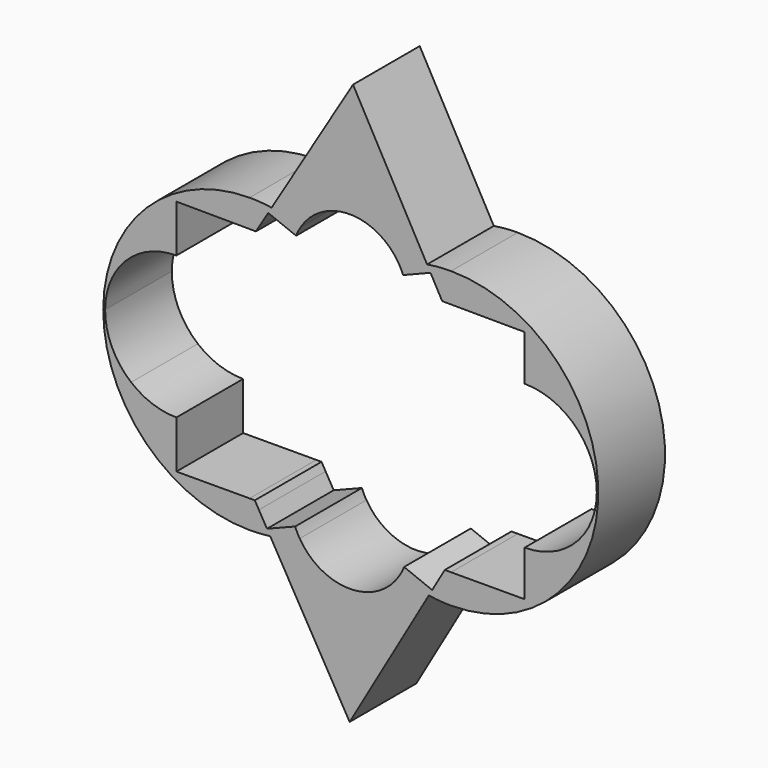
from build123d import *

# Parameters (mm, degrees)
F1_DEPTH = 25.4
F2_DEPTH = 25.654


with BuildPart() as f1:
    # F0 (on Front) → F1 (new body)
    with BuildSketch(Plane.XZ):
        with BuildLine():
            ThreePointArc((-15.060614174, 41.9682624685), (-0.0688082783, 50.3511332937), (14.987647146, 42.0849420703))
            ThreePointArc((14.987647146, 42.0849420703), (19.3434405932, 43.5057594661), (23.8204686342, 44.4793500101))
            Line((23.8204686342, 44.4793500101), (1.0321482392, 85.7816260454))
            Line((1.0321482392, 85.7816260454), (-24.0085215463, 44.2917114126))
            ThreePointArc((-24.0085215463, 44.2917114126), (-19.4747765312, 43.3602512097), (-15.060614174, 41.9682624685))
        make_face()
    extrude(amount=-F1_DEPTH)

    # F0 (on Front) → F2 (join)
    with BuildSketch(Plane.XZ):
        with BuildLine():
            Line((-28.8295803882, 36.30369346), (-27.7535005612, 38.0866513657))
            Line((-27.7535005612, 38.0866513657), (-30.7906209519, 44.8054462665))
            ThreePointArc((-30.7906209519, 44.8054462665), (-29.6489661187, 40.624103652), (-29.2771657497, 36.3056819144))
            Line((-29.2771657497, 36.3056819144), (-28.8295803882, 36.30369346))
        make_face()
        Polygon((-30.7906209519, 44.8054462665), (-27.7535005612, 38.0866513657), (-25.0648295944, 42.54151339), align=None)
        with BuildLine():
            Line((-53.3023555948, 36.4124168488), (-30.7906209519, 36.3124056299))
            Line((-30.7906209519, 36.3124056299), (-30.7906209519, 44.8054462665))
            ThreePointArc((-30.7906209519, 44.8054462665), (-62.5500321621, 31.6953988364), (-75.8140902377, 0))
            Line((-75.8140902377, 0), (-75.2328084137, -0.0011871857))
            ThreePointArc((-75.2328084137, -0.0011871857), (-73.1076200485, 9.3092127471), (-67.2269157832, 16.8336588954))
            ThreePointArc((-67.2269157832, 16.8336588954), (-60.6978163865, 20.5368755433), (-53.3023555948, 21.8214424558))
            Line((-53.3023555948, 21.8214424558), (-53.3023555948, 36.4124168488))
        make_face()
        with BuildLine():
            Line((-30.7906209519, 44.8054462665), (-30.7906209519, 36.3124056299))
            Line((-30.7906209519, 36.3124056299), (-29.2771657497, 36.3056819144))
            ThreePointArc((-29.2771657497, 36.3056819144), (-29.6489661187, 40.624103652), (-30.7906209519, 44.8054462665))
        make_face()
        with BuildLine():
            Line((-25.0648295944, 42.54151339), (-16.4788366985, 39.1466793172))
            ThreePointArc((-16.4788366985, 39.1466793172), (-15.832705808, 40.5891269445), (-15.060614174, 41.9682624685))
            ThreePointArc((-15.060614174, 41.9682624685), (-19.4747765312, 43.3602512097), (-24.0085215463, 44.2917114126))
            Line((-24.0085215463, 44.2917114126), (-25.0648295944, 42.54151339))
        make_face()
        with BuildLine():
            ThreePointArc((23.8204686342, 44.4793500101), (19.3434405932, 43.5057594661), (14.987647146, 42.0849420703))
            ThreePointArc((14.987647146, 42.0849420703), (15.7885662341, 40.6763432088), (16.4574657961, 39.2004721052))
            Line((16.4574657961, 39.2004721052), (24.8784135948, 42.5618969449))
            Line((24.8784135948, 42.5618969449), (23.8204686342, 44.4793500101))
        make_face()
        with BuildLine():
            ThreePointArc((-15.060614174, 41.9682624685), (-0.0688082783, 50.3511332937), (14.987647146, 42.0849420703))
            ThreePointArc((14.987647146, 42.0849420703), (19.3434405932, 43.5057594661), (23.8204686342, 44.4793500101))
            Line((23.8204686342, 44.4793500101), (1.0321482392, 85.7816260454))
            Line((1.0321482392, 85.7816260454), (-24.0085215463, 44.2917114126))
            ThreePointArc((-24.0085215463, 44.2917114126), (-19.4747765312, 43.3602512097), (-15.060614174, 41.9682624685))
        make_face()
        with BuildLine():
            ThreePointArc((-24.0085215463, 44.2917114126), (-27.3898564846, 44.6768288461), (-30.7906209519, 44.8054462665))
            Line((-30.7906209519, 44.8054462665), (-25.0648295944, 42.54151339))
            Line((-25.0648295944, 42.54151339), (-24.0085215463, 44.2917114126))
        make_face()
        with BuildLine():
            Line((29.4191831059, 36.0449159855), (31.1962604648, 36.0370210954))
            Line((31.1962604648, 36.0370210954), (31.1962604648, 45.083818219))
            ThreePointArc((31.1962604648, 45.083818219), (29.8777965479, 40.6488917918), (29.4191831059, 36.0449159855))
        make_face()
        with BuildLine():
            Line((31.1962604648, 45.083818219), (31.1962604648, 36.0370210954))
            Line((31.1962604648, 36.0370210954), (53.8473990671, 35.9363905568))
            Line((53.8473990671, 35.9363905568), (53.8473990671, 21.9238056105))
            ThreePointArc((53.8473990671, 21.9238056105), (61.6802350926, 20.4952804957), (68.5044998261, 16.3936448398))
            ThreePointArc((68.5044998261, 16.3936448398), (74.0656549864, 8.8761377727), (76.0360198852, -0.2648152075))
            ThreePointArc((76.0360198852, -0.2648152075), (76.036008316, -0.2874737281), (76.0359736084, -0.310132225))
            Line((76.0359736084, -0.310132225), (76.4985376694, -0.3110769465))
            ThreePointArc((76.4985376694, -0.3110769465), (63.2625699929, 31.7823320468), (31.1962604648, 45.083818219))
        make_face()
        Polygon((24.8784135948, 42.5618969449), (27.686077002, 37.4731985658), (31.1962604648, 45.083818219), align=None)
        with BuildLine():
            Line((31.1962604648, 45.083818219), (27.686077002, 37.4731985658))
            Line((27.686077002, 37.4731985658), (28.4718024235, 36.0491248436))
            Line((28.4718024235, 36.0491248436), (29.4191831059, 36.0449159855))
            ThreePointArc((29.4191831059, 36.0449159855), (29.8777965479, 40.6488917918), (31.1962604648, 45.083818219))
        make_face()
        Polygon((-25.4324655009, -43.1239806736), (-27.9238592306, -38.808760152), (-30.7906209519, -45.2425532036), align=None)
        with BuildLine():
            Line((-30.7906209519, -45.2425532036), (-27.9238592306, -38.808760152))
            Line((-27.9238592306, -38.808760152), (-29.1769886883, -36.6382762629))
            Line((-29.1769886883, -36.6382762629), (-29.2232528573, -36.6383886578))
            ThreePointArc((-29.2232528573, -36.6383886578), (-29.6130237377, -41.012227686), (-30.7906209519, -45.2425532036))
        make_face()
        with BuildLine():
            ThreePointArc((31.1962604648, 45.083818219), (27.4960007799, 44.9324482787), (23.8204686342, 44.4793500101))
            Line((23.8204686342, 44.4793500101), (24.8784135948, 42.5618969449))
            Line((24.8784135948, 42.5618969449), (31.1962604648, 45.083818219))
        make_face()
        with BuildLine():
            Line((-75.2328164085, -0.0028216264), (-75.8140902377, 0))
            ThreePointArc((-75.8140902377, 0), (-62.704573257, -31.9779646787), (-30.7906209519, -45.2425532036))
            Line((-30.7906209519, -45.2425532036), (-30.7906209519, -36.6421964468))
            Line((-30.7906209519, -36.6421964468), (-53.3023555948, -36.6968868137))
            Line((-53.3023555948, -36.6968868137), (-53.3023555948, -22.0399959243))
            ThreePointArc((-53.3023555948, -22.0399959243), (-60.6978163865, -20.7554290119), (-67.2269157832, -17.052212364))
            ThreePointArc((-67.2269157832, -17.052212364), (-73.1534528918, -9.4307777023), (-75.2328164085, -0.0028216264))
        make_face()
        with BuildLine():
            Line((-75.2328084137, -0.0011871857), (-75.8140902377, 0))
            Line((-75.8140902377, 0), (-75.2328164085, -0.0028216264))
            ThreePointArc((-75.2328164085, -0.0028216264), (-75.2328124264, -0.002004406), (-75.2328084137, -0.0011871857))
        make_face()
        with BuildLine():
            Line((-25.4324655009, -43.1239806736), (-30.7906209519, -45.2425532036))
            ThreePointArc((-30.7906209519, -45.2425532036), (-27.6209328908, -45.1308416505), (-24.4669738087, -44.7962613387))
            Line((-24.4669738087, -44.7962613387), (-25.4324655009, -43.1239806736))
        make_face()
        with BuildLine():
            Line((-30.7906209519, -36.6421964468), (-30.7906209519, -45.2425532036))
            ThreePointArc((-30.7906209519, -45.2425532036), (-29.6130237377, -41.012227686), (-29.2232528573, -36.6383886578))
            Line((-29.2232528573, -36.6383886578), (-30.7906209519, -36.6421964468))
        make_face()
        with BuildLine():
            Line((-16.7719402399, -39.6996770897), (-25.4324655009, -43.1239806736))
            Line((-25.4324655009, -43.1239806736), (-24.4669738087, -44.7962613387))
            ThreePointArc((-24.4669738087, -44.7962613387), (-19.855090202, -43.8943444673), (-15.3623330745, -42.5166442684))
            ThreePointArc((-15.3623330745, -42.5166442684), (-16.1287540245, -41.1389939394), (-16.7719402399, -39.6996770897))
        make_face()
        with BuildLine():
            ThreePointArc((24.3490687404, -45.0004789074), (19.7574141393, -44.0529882803), (15.2882742932, -42.6360128042))
            ThreePointArc((15.2882742932, -42.6360128042), (-0.070238078, -51.1034201303), (-15.3623330745, -42.5166442684))
            ThreePointArc((-15.3623330745, -42.5166442684), (-19.855090202, -43.8943444673), (-24.4669738087, -44.7962613387))
            Line((-24.4669738087, -44.7962613387), (0, -87.1743030828))
            Line((0, -87.1743030828), (24.3490687404, -45.0004789074))
        make_face()
        with BuildLine():
            ThreePointArc((16.7501892204, -39.754426672), (16.0838947627, -41.2280252172), (15.2882742932, -42.6360128042))
            ThreePointArc((15.2882742932, -42.6360128042), (19.7574141393, -44.0529882803), (24.3490687404, -45.0004789074))
            Line((24.3490687404, -45.0004789074), (25.387333514, -43.2021515679))
            Line((25.387333514, -43.2021515679), (16.7501892204, -39.754426672))
        make_face()
        with BuildLine():
            Line((29.2589523384, -36.4963110564), (28.047162827, -38.5951920583))
            Line((28.047162827, -38.5951920583), (31.1962604648, -45.5209251562))
            ThreePointArc((31.1962604648, -45.5209251562), (29.8905818384, -41.0917228659), (29.4425640224, -36.4958649872))
            Line((29.4425640224, -36.4958649872), (29.2589523384, -36.4963110564))
        make_face()
        Polygon((31.1962604648, -45.5209251562), (28.047162827, -38.5951920583), (25.387333514, -43.2021515679), align=None)
        with BuildLine():
            ThreePointArc((68.5044998261, -16.9232752549), (61.6802350926, -21.0249109107), (53.8473990671, -22.4534360256))
            Line((53.8473990671, -22.4534360256), (53.8473990671, -36.436575492))
            Line((53.8473990671, -36.436575492), (31.1962604648, -36.4916045291))
            Line((31.1962604648, -36.4916045291), (31.1962604648, -45.5209251562))
            ThreePointArc((31.1962604648, -45.5209251562), (63.1971459801, -32.2848629967), (76.4985376694, -0.3110769465))
            Line((76.4985376694, -0.3110769465), (76.0359736084, -0.310132225))
            ThreePointArc((76.0359736084, -0.310132225), (74.056309909, -9.4264098499), (68.5044998261, -16.9232752549))
        make_face()
        with BuildLine():
            Line((25.387333514, -43.2021515679), (24.3490687404, -45.0004789074))
            ThreePointArc((24.3490687404, -45.0004789074), (27.7627892326, -45.3906262107), (31.1962604648, -45.5209251562))
            Line((31.1962604648, -45.5209251562), (25.387333514, -43.2021515679))
        make_face()
        with BuildLine():
            ThreePointArc((29.4425640224, -36.4958649872), (29.8905818384, -41.0917228659), (31.1962604648, -45.5209251562))
            Line((31.1962604648, -45.5209251562), (31.1962604648, -36.4916045291))
            Line((31.1962604648, -36.4916045291), (29.4425640224, -36.4958649872))
        make_face()
    extrude(amount=-F2_DEPTH)


solid = f1.part
